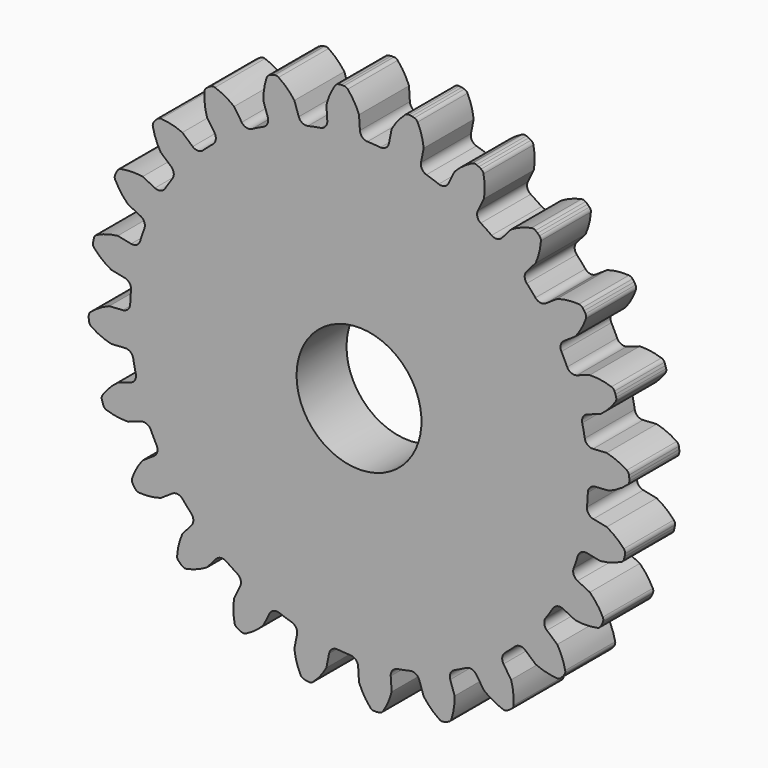
from build123d import *

# Parameters (mm, degrees)
F1_DEPTH = 6.35
F2_D     = 12.7
F2_DEPTH = 50.8


with BuildPart() as f1:
    # F0 (on Front) → F1 (new body)
    with BuildSketch(Plane.XZ):
        with BuildLine():
            ThreePointArc((-3.224289, 23.793137), (-3.394919, 23.244741), (-3.889011, 22.951952))
            ThreePointArc((-3.889011, 22.951952), (-4.541527, 22.831799), (-5.190354, 22.693098))
            ThreePointArc((-5.190354, 22.693098), (-7.482821, 22.043681), (-9.696898, 21.163333))
            ThreePointArc((-9.696898, 21.163333), (-10.296083, 20.87839), (-10.886903, 20.576487))
            ThreePointArc((-10.886903, 20.576487), (-12.933175, 19.355864), (-14.843958, 17.932468))
            ThreePointArc((-14.843958, 17.932468), (-15.348977, 17.502154), (-15.841528, 17.057623))
            ThreePointArc((-15.841528, 17.057623), (-17.502154, 15.348977), (-18.979427, 13.479535))
            ThreePointArc((-18.979427, 13.479535), (-19.355864, 12.933175), (-19.716579, 12.376309))
            ThreePointArc((-19.716579, 12.376309), (-20.87839, 10.296083), (-21.821479, 8.107994))
            ThreePointArc((-21.821479, 8.107994), (-22.043681, 7.482821), (-22.247977, 6.85157))
            ThreePointArc((-22.247977, 6.85157), (-22.831799, 4.541527), (-23.176433, 2.183906))
            ThreePointArc((-23.176433, 2.183906), (-23.229258, 1.522526), (-23.263212, 0.859909))
            ThreePointArc((-23.263212, 0.859909), (-23.229258, -1.522526), (-22.951952, -3.889011))
            ThreePointArc((-22.951952, -3.889011), (-22.831799, -4.541527), (-22.693098, -5.190354))
            ThreePointArc((-22.693098, -5.190354), (-22.043681, -7.482821), (-21.163333, -9.696898))
            ThreePointArc((-21.163333, -9.696898), (-20.87839, -10.296083), (-20.576487, -10.886903))
            ThreePointArc((-20.576487, -10.886903), (-19.355864, -12.933175), (-17.932468, -14.843958))
            ThreePointArc((-17.932468, -14.843958), (-17.502154, -15.348977), (-17.057623, -15.841528))
            ThreePointArc((-17.057623, -15.841528), (-15.348977, -17.502154), (-13.479535, -18.979427))
            ThreePointArc((-13.479535, -18.979427), (-12.933175, -19.355864), (-12.376309, -19.716579))
            ThreePointArc((-12.376309, -19.716579), (-10.296083, -20.87839), (-8.107994, -21.821479))
            ThreePointArc((-8.107994, -21.821479), (-7.482821, -22.043681), (-6.85157, -22.247977))
            ThreePointArc((-6.85157, -22.247977), (-4.541527, -22.831799), (-2.183906, -23.176433))
            ThreePointArc((-2.183906, -23.176433), (-1.522526, -23.229258), (-0.859909, -23.263212))
            ThreePointArc((-0.859909, -23.263212), (1.522526, -23.229258), (3.889011, -22.951952))
            ThreePointArc((3.889011, -22.951952), (4.541527, -22.831799), (5.190354, -22.693098))
            ThreePointArc((5.190354, -22.693098), (7.482821, -22.043681), (9.696898, -21.163333))
            ThreePointArc((9.696898, -21.163333), (10.296083, -20.87839), (10.886903, -20.576487))
            ThreePointArc((10.886903, -20.576487), (12.933175, -19.355864), (14.843958, -17.932468))
            ThreePointArc((14.843958, -17.932468), (15.348977, -17.502154), (15.841528, -17.057623))
            ThreePointArc((15.841528, -17.057623), (17.502154, -15.348977), (18.979427, -13.479535))
            ThreePointArc((18.979427, -13.479535), (19.355864, -12.933175), (19.716579, -12.376309))
            ThreePointArc((19.716579, -12.376309), (20.87839, -10.296083), (21.821479, -8.107994))
            ThreePointArc((21.821479, -8.107994), (22.043681, -7.482821), (22.247977, -6.85157))
            ThreePointArc((22.247977, -6.85157), (22.831799, -4.541527), (23.176433, -2.183906))
            ThreePointArc((23.176433, -2.183906), (23.229258, -1.522526), (23.263212, -0.859909))
            ThreePointArc((23.263212, -0.859909), (23.229258, 1.522526), (22.951952, 3.889011))
            ThreePointArc((22.951952, 3.889011), (22.831799, 4.541527), (22.693098, 5.190354))
            ThreePointArc((22.693098, 5.190354), (22.043681, 7.482821), (21.163333, 9.696898))
            ThreePointArc((21.163333, 9.696898), (20.87839, 10.296083), (20.576487, 10.886903))
            ThreePointArc((20.576487, 10.886903), (19.355864, 12.933175), (17.932468, 14.843958))
            ThreePointArc((17.932468, 14.843958), (17.502154, 15.348977), (17.057623, 15.841528))
            ThreePointArc((17.057623, 15.841528), (15.348977, 17.502154), (13.479535, 18.979427))
            ThreePointArc((13.479535, 18.979427), (12.933175, 19.355864), (12.376309, 19.716579))
            ThreePointArc((12.376309, 19.716579), (10.296083, 20.87839), (8.107994, 21.821479))
            ThreePointArc((8.107994, 21.821479), (7.482821, 22.043681), (6.85157, 22.247977))
            ThreePointArc((6.85157, 22.247977), (4.541527, 22.831799), (2.183906, 23.176433))
            ThreePointArc((2.183906, 23.176433), (1.522526, 23.229258), (0.859909, 23.263212))
            ThreePointArc((0.859909, 23.263212), (0.331827, 23.489005), (0.091077, 24.010437))
            Line((0.091077, 24.010437), (0, 25.4))
            ThreePointArc((0, 25.4), (-0.490703, 26.402603), (-1.149387, 27.303789))
            ThreePointArc((-1.149387, 27.303789), (-1.321746, 27.431775), (-1.53158, 27.477137))
            Line((-1.53158, 27.477137), (-1.800947, 27.477137))
            Line((-1.800947, 27.477137), (-2.068009, 27.441977))
            ThreePointArc((-2.068009, 27.441977), (-2.270127, 27.369614), (-2.424306, 27.220227))
            ThreePointArc((-2.424306, 27.220227), (-2.959726, 26.240774), (-3.315365, 25.182699))
            Line((-3.315365, 25.182699), (-3.224289, 23.793137))
        make_face()
        with BuildLine():
            ThreePointArc((-9.696898, 21.163333), (-7.482821, 22.043681), (-5.190354, 22.693098))
            ThreePointArc((-5.190354, 22.693098), (-5.758881, 22.77452), (-6.126385, 23.215874))
            Line((-6.126385, 23.215874), (-6.574004, 24.534516))
            ThreePointArc((-6.574004, 24.534516), (-7.307479, 25.375952), (-8.176963, 26.075952))
            ThreePointArc((-8.176963, 26.075952), (-8.376574, 26.154966), (-8.590999, 26.144474))
            Line((-8.590999, 26.144474), (-8.851187, 26.074757))
            Line((-8.851187, 26.074757), (-9.10005, 25.971675))
            ThreePointArc((-9.10005, 25.971675), (-9.276551, 25.849465), (-9.386813, 25.665263))
            ThreePointArc((-9.386813, 25.665263), (-9.650488, 24.580608), (-9.720159, 23.46654))
            Line((-9.720159, 23.46654), (-9.272541, 22.147898))
            ThreePointArc((-9.272541, 22.147898), (-9.295422, 21.574026), (-9.696898, 21.163333))
        make_face()
        with BuildLine():
            ThreePointArc((-14.843958, 17.932468), (-12.933175, 19.355864), (-10.886903, 20.576487))
            ThreePointArc((-10.886903, 20.576487), (-11.457132, 20.507989), (-11.926344, 20.839187))
            Line((-11.926344, 20.839187), (-12.7, 21.997045))
            ThreePointArc((-12.7, 21.997045), (-13.626263, 22.619973), (-14.647293, 23.071082))
            ThreePointArc((-14.647293, 23.071082), (-14.860553, 23.095741), (-15.064956, 23.030108))
            Line((-15.064956, 23.030108), (-15.298234, 22.895425))
            Line((-15.298234, 22.895425), (-15.511937, 22.731445))
            ThreePointArc((-15.511937, 22.731445), (-15.650795, 22.567718), (-15.709624, 22.361255))
            ThreePointArc((-15.709624, 22.361255), (-15.683585, 21.245314), (-15.46254, 20.151175))
            Line((-15.46254, 20.151175), (-14.688884, 18.993317))
            ThreePointArc((-14.688884, 18.993317), (-14.562457, 18.433077), (-14.843958, 17.932468))
        make_face()
        with BuildLine():
            ThreePointArc((-18.979427, 13.479535), (-17.502154, 15.348977), (-15.841528, 17.057623))
            ThreePointArc((-15.841528, 17.057623), (-16.374598, 16.843872), (-16.913542, 17.042344))
            Line((-16.913542, 17.042344), (-17.960512, 17.960512))
            ThreePointArc((-17.960512, 17.960512), (-19.016439, 18.32248), (-20.119434, 18.493955))
            ThreePointArc((-20.119434, 18.493955), (-20.331809, 18.462578), (-20.51226, 18.346279))
            Line((-20.51226, 18.346279), (-20.702731, 18.155808))
            Line((-20.702731, 18.155808), (-20.866711, 17.942105))
            ThreePointArc((-20.866711, 17.942105), (-20.958462, 17.748018), (-20.96185, 17.533364))
            ThreePointArc((-20.96185, 17.533364), (-20.647872, 16.462187), (-20.151175, 15.46254))
            Line((-20.151175, 15.46254), (-19.104205, 14.544372))
            ThreePointArc((-19.104205, 14.544372), (-18.837085, 14.035944), (-18.979427, 13.479535))
        make_face()
        with BuildLine():
            ThreePointArc((-21.821479, 8.107994), (-20.87839, 10.296083), (-19.716579, 12.376309))
            ThreePointArc((-19.716579, 12.376309), (-20.176162, 12.031874), (-20.74811, 12.084093))
            Line((-20.74811, 12.084093), (-21.997045, 12.7))
            ThreePointArc((-21.997045, 12.7), (-23.110676, 12.77634), (-24.220469, 12.656497))
            ThreePointArc((-24.220469, 12.656497), (-24.417487, 12.571222), (-24.561688, 12.412181))
            Line((-24.561688, 12.412181), (-24.696372, 12.178903))
            Line((-24.696372, 12.178903), (-24.799454, 11.93004))
            ThreePointArc((-24.799454, 11.93004), (-24.837845, 11.71882), (-24.785561, 11.510603))
            ThreePointArc((-24.785561, 11.510603), (-24.20504, 10.557189), (-23.46654, 9.720159))
            Line((-23.46654, 9.720159), (-22.217605, 9.104253))
            ThreePointArc((-22.217605, 9.104253), (-21.827996, 8.682285), (-21.821479, 8.107994))
        make_face()
        with BuildLine():
            ThreePointArc((-23.176433, 2.183906), (-22.831799, 4.541527), (-22.247977, 6.85157))
            ThreePointArc((-22.247977, 6.85157), (-22.602754, 6.399923), (-23.168729, 6.302332))
            Line((-23.168729, 6.302332), (-24.534516, 6.574004))
            ThreePointArc((-24.534516, 6.574004), (-25.629959, 6.359513), (-26.670918, 5.956518))
            ThreePointArc((-26.670918, 5.956518), (-26.839153, 5.823157), (-26.937278, 5.632214))
            Line((-26.937278, 5.632214), (-27.006995, 5.372025))
            Line((-27.006995, 5.372025), (-27.042155, 5.104963))
            ThreePointArc((-27.042155, 5.104963), (-27.024569, 4.891003), (-26.920177, 4.703413))
            ThreePointArc((-26.920177, 4.703413), (-26.112675, 3.932736), (-25.182699, 3.315365))
            Line((-25.182699, 3.315365), (-23.816913, 3.043693))
            ThreePointArc((-23.816913, 3.043693), (-23.331366, 2.736942), (-23.176433, 2.183906))
        make_face()
        with BuildLine():
            ThreePointArc((-22.951952, -3.889011), (-23.229258, -1.522526), (-23.263212, 0.859909))
            ThreePointArc((-23.263212, 0.859909), (-23.489005, 0.331827), (-24.010437, 0.091077))
            Line((-24.010437, 0.091077), (-25.4, 0))
            ThreePointArc((-25.4, 0), (-26.402603, -0.490703), (-27.303789, -1.149387))
            ThreePointArc((-27.303789, -1.149387), (-27.431775, -1.321746), (-27.477137, -1.53158))
            Line((-27.477137, -1.53158), (-27.477137, -1.800947))
            Line((-27.477137, -1.800947), (-27.441977, -2.068009))
            ThreePointArc((-27.441977, -2.068009), (-27.369614, -2.270127), (-27.220227, -2.424306))
            ThreePointArc((-27.220227, -2.424306), (-26.240774, -2.959726), (-25.182699, -3.315365))
            Line((-25.182699, -3.315365), (-23.793137, -3.224289))
            ThreePointArc((-23.793137, -3.224289), (-23.244741, -3.394919), (-22.951952, -3.889011))
        make_face()
        with BuildLine():
            ThreePointArc((3.043693, 23.816913), (2.736942, 23.331366), (2.183906, 23.176433))
            ThreePointArc((2.183906, 23.176433), (4.541527, 22.831799), (6.85157, 22.247977))
            ThreePointArc((6.85157, 22.247977), (6.399923, 22.602754), (6.302332, 23.168729))
            Line((6.302332, 23.168729), (6.574004, 24.534516))
            ThreePointArc((6.574004, 24.534516), (6.359513, 25.629959), (5.956518, 26.670918))
            ThreePointArc((5.956518, 26.670918), (5.823157, 26.839153), (5.632214, 26.937278))
            Line((5.632214, 26.937278), (5.372025, 27.006995))
            Line((5.372025, 27.006995), (5.104963, 27.042155))
            ThreePointArc((5.104963, 27.042155), (4.891003, 27.024569), (4.703413, 26.920177))
            ThreePointArc((4.703413, 26.920177), (3.932736, 26.112675), (3.315365, 25.182699))
            Line((3.315365, 25.182699), (3.043693, 23.816913))
        make_face()
        with BuildLine():
            ThreePointArc((-21.163333, -9.696898), (-22.043681, -7.482821), (-22.693098, -5.190354))
            ThreePointArc((-22.693098, -5.190354), (-22.77452, -5.758881), (-23.215874, -6.126385))
            Line((-23.215874, -6.126385), (-24.534516, -6.574004))
            ThreePointArc((-24.534516, -6.574004), (-25.375952, -7.307479), (-26.075952, -8.176963))
            ThreePointArc((-26.075952, -8.176963), (-26.154966, -8.376574), (-26.144474, -8.590999))
            Line((-26.144474, -8.590999), (-26.074757, -8.851187))
            Line((-26.074757, -8.851187), (-25.971675, -9.10005))
            ThreePointArc((-25.971675, -9.10005), (-25.849465, -9.276551), (-25.665263, -9.386813))
            ThreePointArc((-25.665263, -9.386813), (-24.580608, -9.650488), (-23.46654, -9.720159))
            Line((-23.46654, -9.720159), (-22.147898, -9.272541))
            ThreePointArc((-22.147898, -9.272541), (-21.574026, -9.295422), (-21.163333, -9.696898))
        make_face()
        with BuildLine():
            ThreePointArc((9.104253, 22.217605), (8.682285, 21.827996), (8.107994, 21.821479))
            ThreePointArc((8.107994, 21.821479), (10.296083, 20.87839), (12.376309, 19.716579))
            ThreePointArc((12.376309, 19.716579), (12.031874, 20.176162), (12.084093, 20.74811))
            Line((12.084093, 20.74811), (12.7, 21.997045))
            ThreePointArc((12.7, 21.997045), (12.77634, 23.110676), (12.656497, 24.220469))
            ThreePointArc((12.656497, 24.220469), (12.571222, 24.417487), (12.412181, 24.561688))
            Line((12.412181, 24.561688), (12.178903, 24.696372))
            Line((12.178903, 24.696372), (11.93004, 24.799454))
            ThreePointArc((11.93004, 24.799454), (11.71882, 24.837845), (11.510603, 24.785561))
            ThreePointArc((11.510603, 24.785561), (10.557189, 24.20504), (9.720159, 23.46654))
            Line((9.720159, 23.46654), (9.104253, 22.217605))
        make_face()
        with BuildLine():
            ThreePointArc((-17.932468, -14.843958), (-19.355864, -12.933175), (-20.576487, -10.886903))
            ThreePointArc((-20.576487, -10.886903), (-20.507989, -11.457132), (-20.839187, -11.926344))
            Line((-20.839187, -11.926344), (-21.997045, -12.7))
            ThreePointArc((-21.997045, -12.7), (-22.619973, -13.626263), (-23.071082, -14.647293))
            ThreePointArc((-23.071082, -14.647293), (-23.095741, -14.860553), (-23.030108, -15.064956))
            Line((-23.030108, -15.064956), (-22.895425, -15.298234))
            Line((-22.895425, -15.298234), (-22.731445, -15.511937))
            ThreePointArc((-22.731445, -15.511937), (-22.567718, -15.650795), (-22.361255, -15.709624))
            ThreePointArc((-22.361255, -15.709624), (-21.245314, -15.683585), (-20.151175, -15.46254))
            Line((-20.151175, -15.46254), (-18.993317, -14.688884))
            ThreePointArc((-18.993317, -14.688884), (-18.433077, -14.562457), (-17.932468, -14.843958))
        make_face()
        with BuildLine():
            ThreePointArc((14.544372, 19.104205), (14.035944, 18.837085), (13.479535, 18.979427))
            ThreePointArc((13.479535, 18.979427), (15.348977, 17.502154), (17.057623, 15.841528))
            ThreePointArc((17.057623, 15.841528), (16.843872, 16.374598), (17.042344, 16.913542))
            Line((17.042344, 16.913542), (17.960512, 17.960512))
            ThreePointArc((17.960512, 17.960512), (18.32248, 19.016439), (18.493955, 20.119434))
            ThreePointArc((18.493955, 20.119434), (18.462578, 20.331809), (18.346279, 20.51226))
            Line((18.346279, 20.51226), (18.155808, 20.702731))
            Line((18.155808, 20.702731), (17.942105, 20.866711))
            ThreePointArc((17.942105, 20.866711), (17.748018, 20.958462), (17.533364, 20.96185))
            ThreePointArc((17.533364, 20.96185), (16.462187, 20.647872), (15.46254, 20.151175))
            Line((15.46254, 20.151175), (14.544372, 19.104205))
        make_face()
        with BuildLine():
            ThreePointArc((-13.479535, -18.979427), (-15.348977, -17.502154), (-17.057623, -15.841528))
            ThreePointArc((-17.057623, -15.841528), (-16.843872, -16.374598), (-17.042344, -16.913542))
            Line((-17.042344, -16.913542), (-17.960512, -17.960512))
            ThreePointArc((-17.960512, -17.960512), (-18.32248, -19.016439), (-18.493955, -20.119434))
            ThreePointArc((-18.493955, -20.119434), (-18.462578, -20.331809), (-18.346279, -20.51226))
            Line((-18.346279, -20.51226), (-18.155808, -20.702731))
            Line((-18.155808, -20.702731), (-17.942105, -20.866711))
            ThreePointArc((-17.942105, -20.866711), (-17.748018, -20.958462), (-17.533364, -20.96185))
            ThreePointArc((-17.533364, -20.96185), (-16.462187, -20.647872), (-15.46254, -20.151175))
            Line((-15.46254, -20.151175), (-14.544372, -19.104205))
            ThreePointArc((-14.544372, -19.104205), (-14.035944, -18.837085), (-13.479535, -18.979427))
        make_face()
        with BuildLine():
            ThreePointArc((18.993317, 14.688884), (18.433077, 14.562457), (17.932468, 14.843958))
            ThreePointArc((17.932468, 14.843958), (19.355864, 12.933175), (20.576487, 10.886903))
            ThreePointArc((20.576487, 10.886903), (20.507989, 11.457132), (20.839187, 11.926344))
            Line((20.839187, 11.926344), (21.997045, 12.7))
            ThreePointArc((21.997045, 12.7), (22.619973, 13.626263), (23.071082, 14.647293))
            ThreePointArc((23.071082, 14.647293), (23.095741, 14.860553), (23.030108, 15.064956))
            Line((23.030108, 15.064956), (22.895425, 15.298234))
            Line((22.895425, 15.298234), (22.731445, 15.511937))
            ThreePointArc((22.731445, 15.511937), (22.567718, 15.650795), (22.361255, 15.709624))
            ThreePointArc((22.361255, 15.709624), (21.245314, 15.683585), (20.151175, 15.46254))
            Line((20.151175, 15.46254), (18.993317, 14.688884))
        make_face()
        with BuildLine():
            ThreePointArc((-8.107994, -21.821479), (-10.296083, -20.87839), (-12.376309, -19.716579))
            ThreePointArc((-12.376309, -19.716579), (-12.031874, -20.176162), (-12.084093, -20.74811))
            Line((-12.084093, -20.74811), (-12.7, -21.997045))
            ThreePointArc((-12.7, -21.997045), (-12.77634, -23.110676), (-12.656497, -24.220469))
            ThreePointArc((-12.656497, -24.220469), (-12.571222, -24.417487), (-12.412181, -24.561688))
            Line((-12.412181, -24.561688), (-12.178903, -24.696372))
            Line((-12.178903, -24.696372), (-11.93004, -24.799454))
            ThreePointArc((-11.93004, -24.799454), (-11.71882, -24.837845), (-11.510603, -24.785561))
            ThreePointArc((-11.510603, -24.785561), (-10.557189, -24.20504), (-9.720159, -23.46654))
            Line((-9.720159, -23.46654), (-9.104253, -22.217605))
            ThreePointArc((-9.104253, -22.217605), (-8.682285, -21.827996), (-8.107994, -21.821479))
        make_face()
        with BuildLine():
            ThreePointArc((22.147898, 9.272541), (21.574026, 9.295422), (21.163333, 9.696898))
            ThreePointArc((21.163333, 9.696898), (22.043681, 7.482821), (22.693098, 5.190354))
            ThreePointArc((22.693098, 5.190354), (22.77452, 5.758881), (23.215874, 6.126385))
            Line((23.215874, 6.126385), (24.534516, 6.574004))
            ThreePointArc((24.534516, 6.574004), (25.375952, 7.307479), (26.075952, 8.176963))
            ThreePointArc((26.075952, 8.176963), (26.154966, 8.376574), (26.144474, 8.590999))
            Line((26.144474, 8.590999), (26.074757, 8.851187))
            Line((26.074757, 8.851187), (25.971675, 9.10005))
            ThreePointArc((25.971675, 9.10005), (25.849465, 9.276551), (25.665263, 9.386813))
            ThreePointArc((25.665263, 9.386813), (24.580608, 9.650488), (23.46654, 9.720159))
            Line((23.46654, 9.720159), (22.147898, 9.272541))
        make_face()
        with BuildLine():
            ThreePointArc((-2.183906, -23.176433), (-4.541527, -22.831799), (-6.85157, -22.247977))
            ThreePointArc((-6.85157, -22.247977), (-6.399923, -22.602754), (-6.302332, -23.168729))
            Line((-6.302332, -23.168729), (-6.574004, -24.534516))
            ThreePointArc((-6.574004, -24.534516), (-6.359513, -25.629959), (-5.956518, -26.670918))
            ThreePointArc((-5.956518, -26.670918), (-5.823157, -26.839153), (-5.632214, -26.937278))
            Line((-5.632214, -26.937278), (-5.372025, -27.006995))
            Line((-5.372025, -27.006995), (-5.104963, -27.042155))
            ThreePointArc((-5.104963, -27.042155), (-4.891003, -27.024569), (-4.703413, -26.920177))
            ThreePointArc((-4.703413, -26.920177), (-3.932736, -26.112675), (-3.315365, -25.182699))
            Line((-3.315365, -25.182699), (-3.043693, -23.816913))
            ThreePointArc((-3.043693, -23.816913), (-2.736942, -23.331366), (-2.183906, -23.176433))
        make_face()
        with BuildLine():
            ThreePointArc((23.793137, 3.224289), (23.244741, 3.394919), (22.951952, 3.889011))
            ThreePointArc((22.951952, 3.889011), (23.229258, 1.522526), (23.263212, -0.859909))
            ThreePointArc((23.263212, -0.859909), (23.489005, -0.331827), (24.010437, -0.091077))
            Line((24.010437, -0.091077), (25.4, 0))
            ThreePointArc((25.4, 0), (26.402603, 0.490703), (27.303789, 1.149387))
            ThreePointArc((27.303789, 1.149387), (27.431775, 1.321746), (27.477137, 1.53158))
            Line((27.477137, 1.53158), (27.477137, 1.800947))
            Line((27.477137, 1.800947), (27.441977, 2.068009))
            ThreePointArc((27.441977, 2.068009), (27.369614, 2.270127), (27.220227, 2.424306))
            ThreePointArc((27.220227, 2.424306), (26.240774, 2.959726), (25.182699, 3.315365))
            Line((25.182699, 3.315365), (23.793137, 3.224289))
        make_face()
        with BuildLine():
            ThreePointArc((3.889011, -22.951952), (1.522526, -23.229258), (-0.859909, -23.263212))
            ThreePointArc((-0.859909, -23.263212), (-0.331827, -23.489005), (-0.091077, -24.010437))
            Line((-0.091077, -24.010437), (0, -25.4))
            ThreePointArc((0, -25.4), (0.490703, -26.402603), (1.149387, -27.303789))
            ThreePointArc((1.149387, -27.303789), (1.321746, -27.431775), (1.53158, -27.477137))
            Line((1.53158, -27.477137), (1.800947, -27.477137))
            Line((1.800947, -27.477137), (2.068009, -27.441977))
            ThreePointArc((2.068009, -27.441977), (2.270127, -27.369614), (2.424306, -27.220227))
            ThreePointArc((2.424306, -27.220227), (2.959726, -26.240774), (3.315365, -25.182699))
            Line((3.315365, -25.182699), (3.224289, -23.793137))
            ThreePointArc((3.224289, -23.793137), (3.394919, -23.244741), (3.889011, -22.951952))
        make_face()
        with BuildLine():
            ThreePointArc((23.816913, -3.043693), (23.331366, -2.736942), (23.176433, -2.183906))
            ThreePointArc((23.176433, -2.183906), (22.831799, -4.541527), (22.247977, -6.85157))
            ThreePointArc((22.247977, -6.85157), (22.602754, -6.399923), (23.168729, -6.302332))
            Line((23.168729, -6.302332), (24.534516, -6.574004))
            ThreePointArc((24.534516, -6.574004), (25.629959, -6.359513), (26.670918, -5.956518))
            ThreePointArc((26.670918, -5.956518), (26.839153, -5.823157), (26.937278, -5.632214))
            Line((26.937278, -5.632214), (27.006995, -5.372025))
            Line((27.006995, -5.372025), (27.042155, -5.104963))
            ThreePointArc((27.042155, -5.104963), (27.024569, -4.891003), (26.920177, -4.703413))
            ThreePointArc((26.920177, -4.703413), (26.112675, -3.932736), (25.182699, -3.315365))
            Line((25.182699, -3.315365), (23.816913, -3.043693))
        make_face()
        with BuildLine():
            ThreePointArc((9.696898, -21.163333), (7.482821, -22.043681), (5.190354, -22.693098))
            ThreePointArc((5.190354, -22.693098), (5.758881, -22.77452), (6.126385, -23.215874))
            Line((6.126385, -23.215874), (6.574004, -24.534516))
            ThreePointArc((6.574004, -24.534516), (7.307479, -25.375952), (8.176963, -26.075952))
            ThreePointArc((8.176963, -26.075952), (8.376574, -26.154966), (8.590999, -26.144474))
            Line((8.590999, -26.144474), (8.851187, -26.074757))
            Line((8.851187, -26.074757), (9.10005, -25.971675))
            ThreePointArc((9.10005, -25.971675), (9.276551, -25.849465), (9.386813, -25.665263))
            ThreePointArc((9.386813, -25.665263), (9.650488, -24.580608), (9.720159, -23.46654))
            Line((9.720159, -23.46654), (9.272541, -22.147898))
            ThreePointArc((9.272541, -22.147898), (9.295422, -21.574026), (9.696898, -21.163333))
        make_face()
        with BuildLine():
            ThreePointArc((22.217605, -9.104253), (21.827996, -8.682285), (21.821479, -8.107994))
            ThreePointArc((21.821479, -8.107994), (20.87839, -10.296083), (19.716579, -12.376309))
            ThreePointArc((19.716579, -12.376309), (20.176162, -12.031874), (20.74811, -12.084093))
            Line((20.74811, -12.084093), (21.997045, -12.7))
            ThreePointArc((21.997045, -12.7), (23.110676, -12.77634), (24.220469, -12.656497))
            ThreePointArc((24.220469, -12.656497), (24.417487, -12.571222), (24.561688, -12.412181))
            Line((24.561688, -12.412181), (24.696372, -12.178903))
            Line((24.696372, -12.178903), (24.799454, -11.93004))
            ThreePointArc((24.799454, -11.93004), (24.837845, -11.71882), (24.785561, -11.510603))
            ThreePointArc((24.785561, -11.510603), (24.20504, -10.557189), (23.46654, -9.720159))
            Line((23.46654, -9.720159), (22.217605, -9.104253))
        make_face()
        with BuildLine():
            ThreePointArc((14.843958, -17.932468), (12.933175, -19.355864), (10.886903, -20.576487))
            ThreePointArc((10.886903, -20.576487), (11.457132, -20.507989), (11.926344, -20.839187))
            Line((11.926344, -20.839187), (12.7, -21.997045))
            ThreePointArc((12.7, -21.997045), (13.626263, -22.619973), (14.647293, -23.071082))
            ThreePointArc((14.647293, -23.071082), (14.860553, -23.095741), (15.064956, -23.030108))
            Line((15.064956, -23.030108), (15.298234, -22.895425))
            Line((15.298234, -22.895425), (15.511937, -22.731445))
            ThreePointArc((15.511937, -22.731445), (15.650795, -22.567718), (15.709624, -22.361255))
            ThreePointArc((15.709624, -22.361255), (15.683585, -21.245314), (15.46254, -20.151175))
            Line((15.46254, -20.151175), (14.688884, -18.993317))
            ThreePointArc((14.688884, -18.993317), (14.562457, -18.433077), (14.843958, -17.932468))
        make_face()
        with BuildLine():
            ThreePointArc((19.104205, -14.544372), (18.837085, -14.035944), (18.979427, -13.479535))
            ThreePointArc((18.979427, -13.479535), (17.502154, -15.348977), (15.841528, -17.057623))
            ThreePointArc((15.841528, -17.057623), (16.374598, -16.843872), (16.913542, -17.042344))
            Line((16.913542, -17.042344), (17.960512, -17.960512))
            ThreePointArc((17.960512, -17.960512), (19.016439, -18.32248), (20.119434, -18.493955))
            ThreePointArc((20.119434, -18.493955), (20.331809, -18.462578), (20.51226, -18.346279))
            Line((20.51226, -18.346279), (20.702731, -18.155808))
            Line((20.702731, -18.155808), (20.866711, -17.942105))
            ThreePointArc((20.866711, -17.942105), (20.958462, -17.748018), (20.96185, -17.533364))
            ThreePointArc((20.96185, -17.533364), (20.647872, -16.462187), (20.151175, -15.46254))
            Line((20.151175, -15.46254), (19.104205, -14.544372))
        make_face()
    extrude(amount=F1_DEPTH)

    # F2
    with Locations(Plane(origin=(0, 0, 0), x_dir=(1, 0, 0), z_dir=(0, 1, 0))):
        with Locations((0, 0)):
            Hole(F2_D / 2, depth=F2_DEPTH)


solid = f1.part
